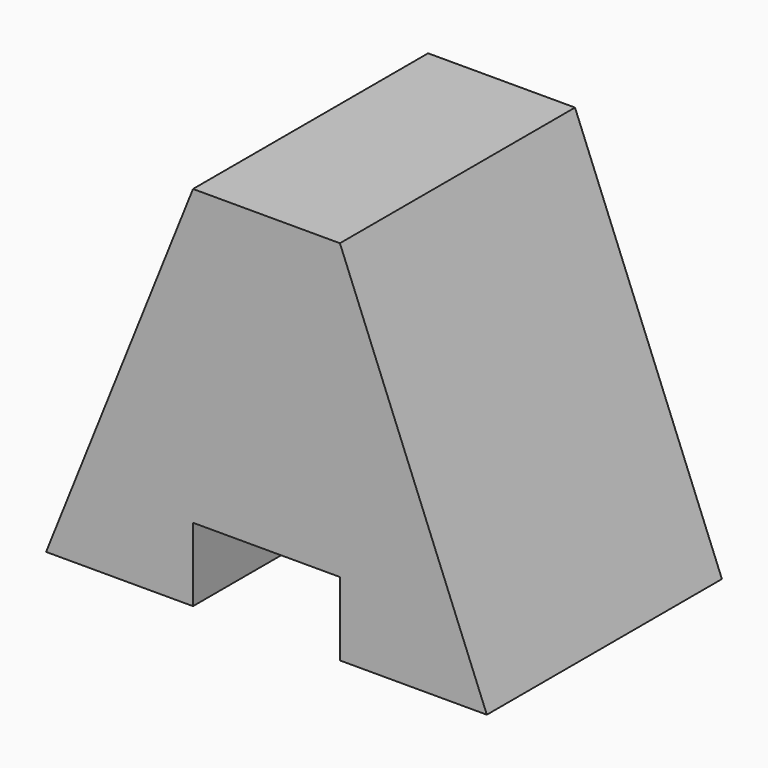
from build123d import *

# Parameters (mm, degrees)
F0_W     = 12.7
F0_H     = 25.4
F1_DEPTH = 25.4


with BuildPart() as f1:
    # F0 (on Front) → F1 (new body)
    with BuildSketch(Plane.XZ):
        Polygon((-42.275332, 31.75), (-54.975332, 0), (-42.275332, 0), (-42.275332, 6.35), align=None)
        with Locations((-35.925332, 19.05)):
            Rectangle(F0_W, F0_H)
        Polygon((-29.575332, 6.35), (-29.575332, 0), (-16.875332, 0), (-29.575332, 31.75), align=None)
    extrude(amount=F1_DEPTH)


solid = f1.part
